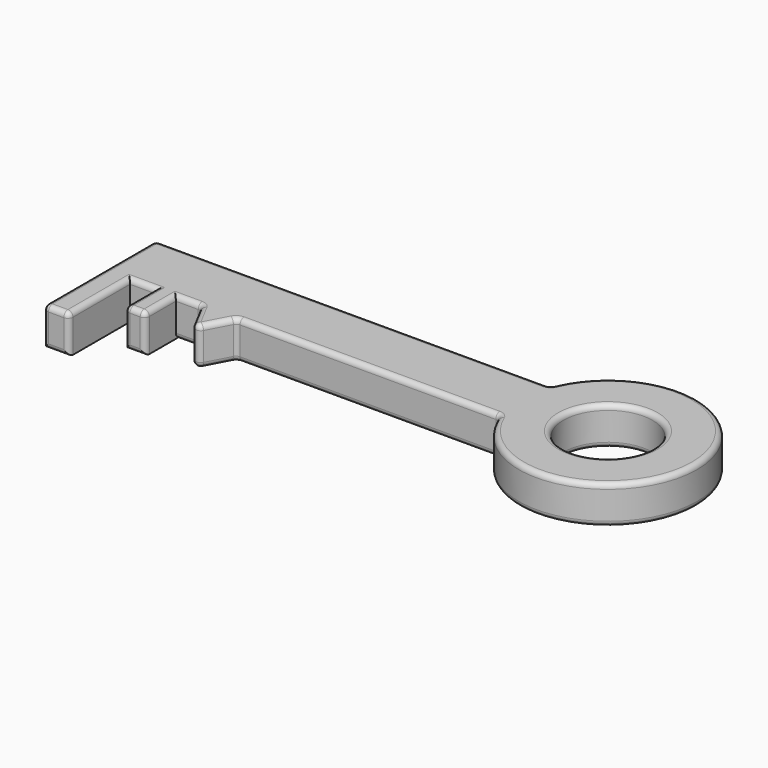
from build123d import *

# Parameters (mm, degrees)
F0_R     = 17.5
F0_W     = 10
F0_H     = 30
F0_W_2   = 8
F0_H_2   = 15
F1_DEPTH = 15
F2_R     = 2


with BuildPart() as f1:
    # F0 (on Top) → F1 (new body)
    with BuildSketch(Plane.XY):
        Polygon((-102.9834508029, 0), (0, 0), (0, 25), (-155, 25), (-155, 0), (-145, 0), (-135, 0), (-127, 0), (-117, 0), (-109.9917254015, 0), align=None)
        with BuildLine():
            Line((0, 25), (0, 0))
            ThreePointArc((0, 0), (67.6917420766, 12.5), (0, 25))
        make_face()
        with Locations((32.6917420766, 12.5)):
            Circle(F0_R, mode=Mode.SUBTRACT)
        Polygon((-109.9917254015, -13.262129812), (-102.9834508029, 0), (-109.9917254015, 0), align=None)
        Polygon((-109.9917254015, -13.262129812), (-109.9917254015, 0), (-117, 0), align=None)
        with Locations((-150, -15)):
            Rectangle(F0_W, F0_H)
        with Locations((-131, -7.5)):
            Rectangle(F0_W_2, F0_H_2)
    extrude(amount=F1_DEPTH)

    # F2
    f2_edges = [f1.edges().sort_by_distance(p)[0] for p in [
        (-77.5, 25, 15),
        (-51.491725, 0, 0),
        (-155, -2.5, 15),
        (-150, -30, 15),
        (-145, -15, 15),
        (-140, 0, 15),
        (-135, -7.5, 15),
        (-131, -15, 15),
        (-122, 0, 0),
        (-113.495863, -6.631065, 15),
        (-106.487588, -6.631065, 0),
        (67.691742, 12.5, 15),
        (15.191742, 12.5, 0),
        (-77.5, 25, 0),
        (0, 0, 7.5),
        (0, 25, 7.5),
        (67.691742, 12.5, 0),
        (-51.491725, 0, 15),
        (-102.983451, 0, 7.5),
        (-109.991725, -13.26213, 7.5),
        (-106.487588, -6.631065, 15),
        (-113.495863, -6.631065, 0),
        (-117, 0, 7.5),
        (-122, 0, 15),
        (-127, -7.5, 15),
        (-131, -15, 0),
        (-140, 0, 0),
        (-135, -15, 7.5),
        (-145, -30, 7.5),
        (-150, -30, 0),
        (-155, -30, 7.5),
        (-127, -15, 7.5),
        (15.191742, 12.5, 15),
        (-155, 25, 7.5),
    ]]
    fillet(f2_edges, radius=F2_R)


solid = f1.part
